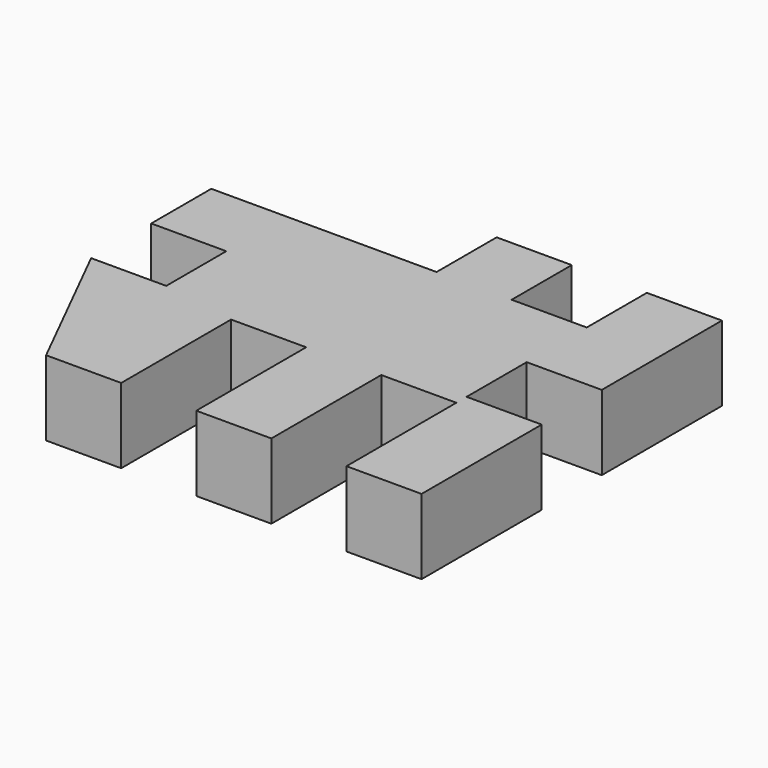
from build123d import *

# Parameters (mm, degrees)
F1_DEPTH = 10


with BuildPart() as f1:
    # F0 (on Top) → F1 (new body)
    with BuildSketch(Plane.XY):
        Polygon((-10, 29.483898), (-29.91453, 29.483898), (-40, 29.483898), (-40, 19.483898), (-30, 19.483898), (-30, 9.483898), (-40, 9.483898), (-30, -10.516102), (-20, -10.516102), (-20, 7.777781), (-10, 7.777781), (-10, -10.516102), (0, -10.516102), (0, 7.777781), (10, 7.777781), (10, -10.516102), (20, -10.516102), (20, 9.483898), (10, 9.483898), (10, 19.483898), (20, 19.483898), (20, 39.483898), (10, 39.483898), (10, 29.483898), (0, 29.483898), (0, 39.483898), (-10, 39.483898), align=None)
    extrude(amount=F1_DEPTH)


solid = f1.part
